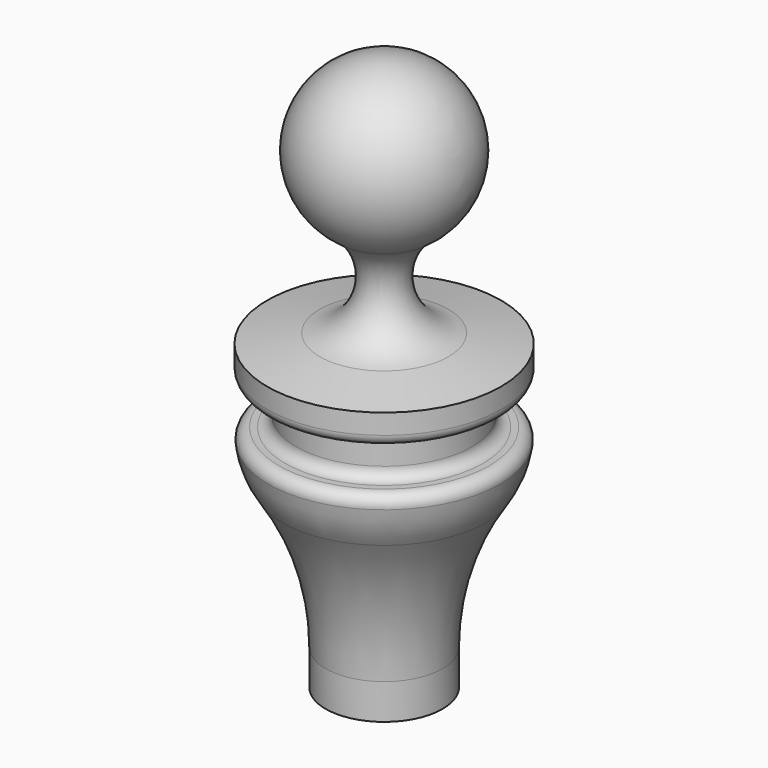
from build123d import *


with BuildPart() as f1:
    # F0 (on Front) → F1 (revolve)
    with BuildSketch(Plane.XZ):
        with BuildLine():
            Line((0, 159.264182), (0, 0))
            Line((0, 0), (16.798324, 0))
            Line((16.798324, 0), (16.798324, 10.176592))
            ThreePointArc((16.798324, 10.176592), (19.948509, 31.529477), (29.130653, 51.062977))
            ThreePointArc((29.130653, 51.062977), (31.874849, 56.423189), (33.351344, 62.261207))
            ThreePointArc((33.351344, 62.261207), (32.596596, 64.777037), (30.205228, 65.8635))
            Line((30.205228, 65.8635), (28.40921, 65.8635))
            ThreePointArc((28.40921, 65.8635), (26.164146, 66.793436), (25.23421, 69.0385))
            Line((25.23421, 69.0385), (25.23421, 74.863414))
            ThreePointArc((25.23421, 74.863414), (26.164146, 77.108478), (28.40921, 78.038414))
            Line((28.40921, 78.038414), (30.419851, 78.038414))
            ThreePointArc((30.419851, 78.038414), (32.664915, 78.96835), (33.594851, 81.213414))
            Line((33.594851, 81.213414), (33.594851, 86.983496))
            Line((33.594851, 86.983496), (18.492645, 89.646422))
            ThreePointArc((18.492645, 89.646422), (6.658876, 101.120462), (12.926075, 116.36559))
            ThreePointArc((12.926075, 116.36559), (22.401856, 142.617523), (0, 159.264182))
        make_face()
    revolve(axis=Axis((0, 0, -13.586045), (0, 0, -1)))


solid = f1.part
